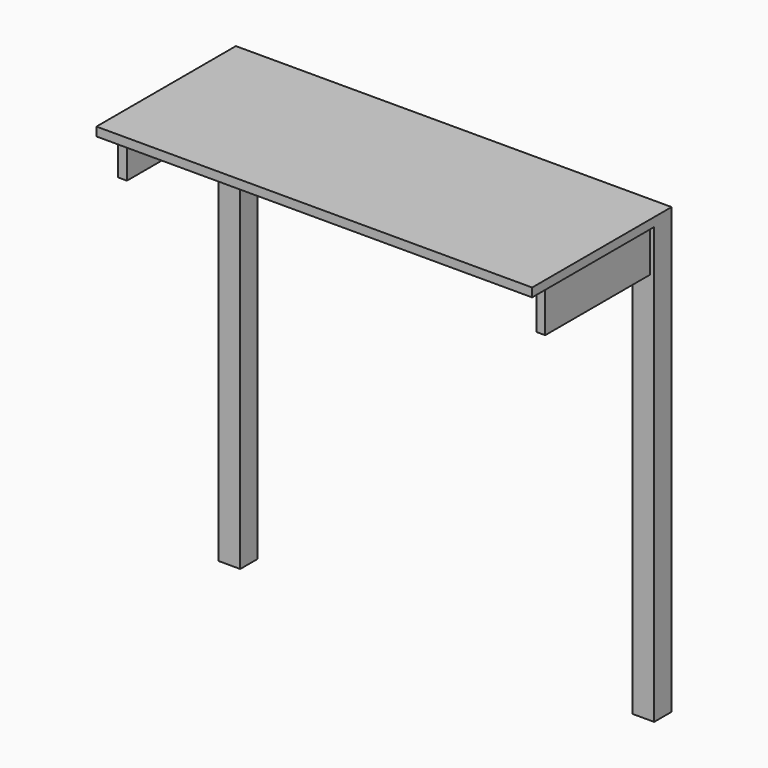
from build123d import *

# Parameters (mm, degrees)
F0_W     = 1000
F0_H     = 400
F1_DEPTH = 20
F2_W     = 50
F2_H     = 50
F3_DEPTH = 1000
F4_W     = 900
F4_H     = 20
F4_W_2   = 20
F4_H_2   = 300
F5_DEPTH = 100


with BuildPart() as f1:
    # F0 (on Top) → F1 (new body)
    with BuildSketch(Plane.XY):
        with Locations((-500, -200)):
            Rectangle(F0_W, F0_H)
    extrude(amount=-F1_DEPTH)

    # F2 (on face) → F3 (join)
    with BuildSketch(Plane(origin=(0, 0, -20), x_dir=(1, 0, 0), z_dir=(0, 0, -1))):
        with Locations((-25, 25)):
            Rectangle(F2_W, F2_H)
        with Locations((-975, 25)):
            Rectangle(F2_W, F2_H)
    extrude(amount=F3_DEPTH)

    # F4 (on face) → F5 (join)
    with BuildSketch(Plane(origin=(0, 0, -20), x_dir=(1, 0, 0), z_dir=(0, 0, -1))):
        with Locations((-500, 20)):
            Rectangle(F4_W, F4_H)
        with Locations((-20, 200)):
            Rectangle(F4_W_2, F4_H_2)
        with Locations((-980, 200)):
            Rectangle(F4_W_2, F4_H_2)
    extrude(amount=F5_DEPTH)


solid = f1.part
